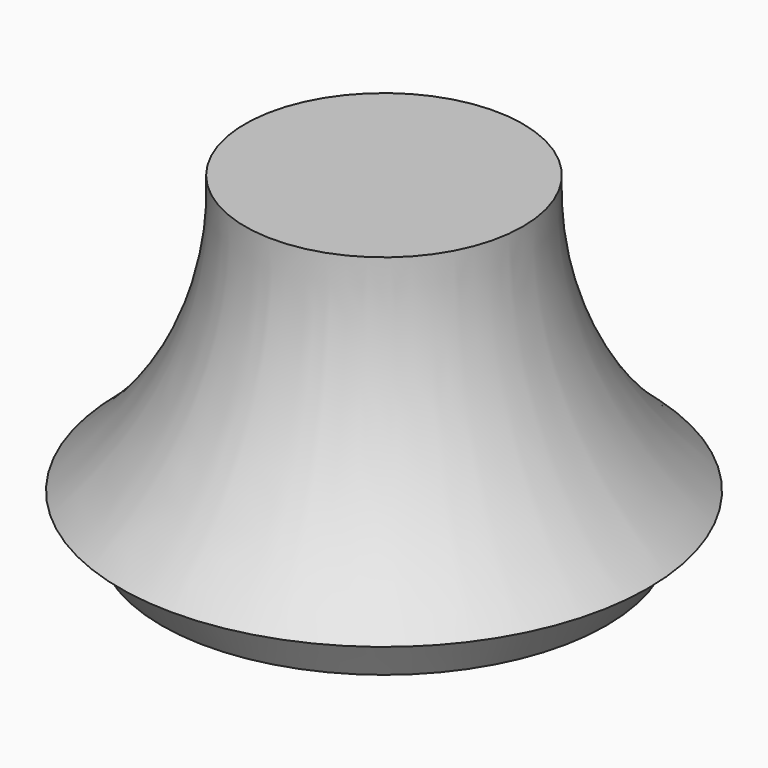
from build123d import *

# Parameters (mm, degrees)
F2_R     = 5
F3_DEPTH = 32


with BuildPart() as f1:
    # F0 (on Front) → F1 (revolve)
    with BuildSketch(Plane.XZ):
        with BuildLine():
            Line((0, 35), (0, 0))
            Line((0, 0), (24, 0))
            Line((24, 0), (27, 5))
            Line((27, 5), (28.5, 5))
            ThreePointArc((28.5, 5), (18.243075, 18.421884), (15, 35))
            Line((15, 35), (0, 35))
        make_face()
    revolve(axis=Axis((0, 0, 17.5), (0, 0, -1)))


with BuildPart() as f3:
    # F2 (on Top) → F3 (new body)
    with BuildSketch(Plane.XY):
        Circle(F2_R)
    extrude(amount=F3_DEPTH)


with BuildPart() as f1_1:
    add(f1.part)

    # F4: cut F3
    add(f3.part, mode=Mode.SUBTRACT)


solid = f1_1.part
